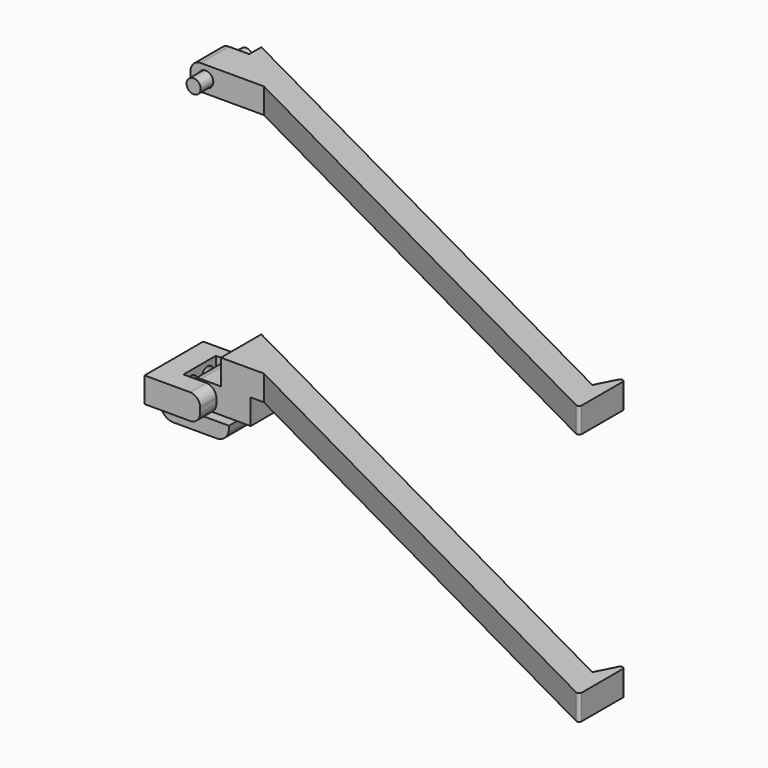
from build123d import *

# Parameters (mm, degrees)
PAD_DEPTH              = 10
SKETCH001_R            = 3
POCKET_DEPTH           = 120.358536
FILLET_R               = 4
CYLINDER_R             = 2.8
CYLINDER_DEPTH         = 26
CYLINDER_ROLL_ANGLE    = 90
CYLINDER001_R          = 2.8
CYLINDER001_DEPTH      = 26
CYLINDER001_ROLL_ANGLE = 90
PAD003_DEPTH           = 10
SKETCH010_R            = 3
POCKET006_DEPTH        = 26
FILLET004_R            = 4
FILLET005_R            = 4
SKETCH011_R            = 3
POCKET007_DEPTH        = 4
SKETCH012_R            = 2
POCKET008_DEPTH        = 5.001
SKETCH013_R            = 2
POCKET009_DEPTH        = 5.001
PAD002_DEPTH           = 10
SKETCH014_W            = 11.775663
SKETCH014_H            = 14
PAD004_DEPTH           = 10
SKETCH015_W            = 14
SKETCH015_H            = 10
PAD005_DEPTH           = 12
SKETCH016_R            = 3
POCKET010_DEPTH        = 120.358536
FILLET006_R            = 4
PAD001_DEPTH           = 10
SKETCH003_R            = 3
POCKET001_DEPTH        = 26
FILLET001_R            = 4
FILLET002_R            = 4
SKETCH004_R            = 3
POCKET002_DEPTH        = 4
SKETCH005_R            = 2
POCKET003_DEPTH        = 5.001
SKETCH006_R            = 2
POCKET004_DEPTH        = 5.001
SKETCH017_W            = 9
SKETCH017_H            = 16
PAD006_DEPTH           = 8
SKETCH018_W            = 16
SKETCH018_H            = 6
PAD007_DEPTH           = 18
FILLET007_R            = 5


with BuildPart() as bar_smoothed:
    # Sketch → Pad (new body)
    with BuildSketch(Plane(origin=(2, 0, 0), x_dir=(1, 0, 0), z_dir=(0, 0, 1))):
        with BuildLine():
            Line((12, 0), (233, -112.605124))
            Line((233, -112.605124), (237.076204, -104.605124))
            ThreePointArc((239, -105.066987), (238.220153, -104.077756), (237.076204, -104.605124))
            Line((239, -125.340197), (239, -105.066987))
            ThreePointArc((237.520797, -126.246653), (238.514219, -126.207621), (239, -125.340197))
            Line((29, -20), (237.520797, -126.246653))
            Line((0, -20), (29, -20))
            Line((0, -6), (0, -20))
            Line((0, -6), (12, -6))
            Line((12, -6), (12, 0))
        make_face()
    extrude(amount=PAD_DEPTH)

    # Sketch001 → Pocket (cut, through all)
    with BuildSketch(Plane(origin=(2, -6, 0), x_dir=(-1, 0, 0), z_dir=(0, 1, 0))):
        with Locations((-6, 5)):
            Circle(SKETCH001_R)
    extrude(amount=-POCKET_DEPTH, mode=Mode.SUBTRACT)

    # Fillet
    fillet_edges = [bar_smoothed.edges().sort_by_distance(p)[0] for p in [
        (2, -13, 0),
        (2, -13, 10),
    ]]
    fillet(fillet_edges, radius=FILLET_R)


with BuildPart() as cylindrical_fastener:
    # Cylinder → Cylinder (new body)
    with BuildSketch(Plane.XY):
        Circle(CYLINDER_R)
    extrude(amount=CYLINDER_DEPTH)


with BuildPart() as cylindrical_fastener_1:
    # Cylinder roll: moved
    add(cylindrical_fastener.part.rotate(Axis((0, 0, 0), (1, 0, 0)), CYLINDER_ROLL_ANGLE))


with BuildPart() as cylindrical_fastener_2:
    # Cylinder placement: moved
    add(cylindrical_fastener_1.part.moved(Location((8, 0, 5))))


with BuildPart() as obj1:
    # Cylinder001 → Cylinder001 (new body)
    with BuildSketch(Plane.XY):
        Circle(CYLINDER001_R)
    extrude(amount=CYLINDER001_DEPTH)


with BuildPart() as obj1_1:
    # Cylinder001 roll: moved
    add(obj1.part.rotate(Axis((0, 0, 0), (1, 0, 0)), CYLINDER001_ROLL_ANGLE))


with BuildPart() as obj1_2:
    # Cylinder001 placement: moved
    add(obj1_1.part.moved(Location((8, 0, -105))))


with BuildPart() as obj2:
    # Sketch009 → Pad003 (new body)
    with BuildSketch(Plane.XY.offset(-110)):
        Polygon((13, 0), (13, -5), (0, -5), (0, -21), (13, -21), (13, -29), (-9, -29), (-9, 0), align=None)
    extrude(amount=PAD003_DEPTH)

    # Sketch010 → Pocket006 (cut)
    with BuildSketch(Plane(origin=(0, 0, -110), x_dir=(-1, 0, 0), z_dir=(0, 1, 0))):
        with Locations((-8, 5)):
            Circle(SKETCH010_R)
    extrude(amount=-POCKET006_DEPTH, mode=Mode.SUBTRACT)

    # Fillet004
    fillet004_edges = [obj2.edges().sort_by_distance(p)[0] for p in [
        (13, -2.5, -100),
        (13, -2.5, -110),
    ]]
    fillet(fillet004_edges, radius=FILLET004_R)

    # Fillet005
    fillet005_edges = [obj2.edges().sort_by_distance(p)[0] for p in [
        (13, -25, -100),
        (13, -25, -110),
    ]]
    fillet(fillet005_edges, radius=FILLET005_R)

    # Sketch011 → Pocket007 (cut)
    with BuildSketch(Plane(origin=(0, 0, -110), x_dir=(0, 1, 0), z_dir=(1, 0, 0))):
        with Locations((-17, 5)):
            Circle(SKETCH011_R)
        with Locations((-9, 5)):
            Circle(SKETCH011_R)
    extrude(amount=-POCKET007_DEPTH, mode=Mode.SUBTRACT)

    # Sketch012 → Pocket008 (cut, through all)
    with BuildSketch(Plane(origin=(-4, 0, -110), x_dir=(0, 1, 0), z_dir=(1, 0, 0))):
        with Locations((-9, 5)):
            Circle(SKETCH012_R)
    extrude(amount=-POCKET008_DEPTH, mode=Mode.SUBTRACT)

    # Sketch013 → Pocket009 (cut, through all)
    with BuildSketch(Plane(origin=(-4, 0, -110), x_dir=(0, 1, 0), z_dir=(1, 0, 0))):
        with Locations((-17, 5)):
            Circle(SKETCH013_R)
    extrude(amount=-POCKET009_DEPTH, mode=Mode.SUBTRACT)


with BuildPart() as barb_smoothed:
    # Sketch007 → Pad002 (new body)
    with BuildSketch(Plane(origin=(2, 0, -100), x_dir=(1, 0, 0), z_dir=(0, 0, 1))):
        with BuildLine():
            Line((12, 0), (233, -112.605124))
            Line((233, -112.605124), (237.076204, -104.605124))
            ThreePointArc((239, -105.066987), (238.220153, -104.077756), (237.076204, -104.605124))
            Line((239, -125.340197), (239, -105.066987))
            ThreePointArc((237.520797, -126.246653), (238.514219, -126.207621), (239, -125.340197))
            Line((29, -20), (237.520797, -126.246653))
            Line((12, -20), (29, -20))
            Line((12, 0), (12, -20))
        make_face()
    extrude(amount=PAD002_DEPTH)

    # Sketch014 → Pad004 (new body)
    with BuildSketch(Plane(origin=(2, 0, -100), x_dir=(1, 0, 0), z_dir=(0, 0, -1))):
        with Locations((17.887831, 13)):
            Rectangle(SKETCH014_W, SKETCH014_H)
    extrude(amount=PAD004_DEPTH)

    # Sketch015 → Pad005 (new body)
    with BuildSketch(Plane(origin=(14, 0, -100), x_dir=(0, -1, 0), z_dir=(-1, 0, 0))):
        with Locations((13, -5)):
            Rectangle(SKETCH015_W, SKETCH015_H)
    extrude(amount=PAD005_DEPTH)

    # Sketch016 → Pocket010 (cut, through all)
    with BuildSketch(Plane(origin=(2, -6, -100), x_dir=(-1, 0, 0), z_dir=(0, 1, 0))):
        with Locations((-6, -5)):
            Circle(SKETCH016_R)
    extrude(amount=-POCKET010_DEPTH, mode=Mode.SUBTRACT)

    # Fillet006
    fillet006_edges = [barb_smoothed.edges().sort_by_distance(p)[0] for p in [
        (2, -13, -100),
        (2, -13, -110),
    ]]
    fillet(fillet006_edges, radius=FILLET006_R)


with BuildPart() as fix_with_side_wing_smoothed:
    # Sketch002 → Pad001 (new body)
    with BuildSketch(Plane.XY):
        Polygon((13, 0), (13, -5), (0, -5), (0, -21), (13, -21), (13, -29), (-9, -29), (-9, 0), align=None)
    extrude(amount=PAD001_DEPTH)

    # Sketch003 → Pocket001 (cut)
    with BuildSketch(Plane(origin=(0, 0, 0), x_dir=(-1, 0, 0), z_dir=(0, 1, 0))):
        with Locations((-8, 5)):
            Circle(SKETCH003_R)
    extrude(amount=-POCKET001_DEPTH, mode=Mode.SUBTRACT)

    # Fillet001
    fillet001_edges = [fix_with_side_wing_smoothed.edges().sort_by_distance(p)[0] for p in [
        (13, -2.5, 10),
        (13, -2.5, 0),
    ]]
    fillet(fillet001_edges, radius=FILLET001_R)

    # Fillet002
    fillet002_edges = [fix_with_side_wing_smoothed.edges().sort_by_distance(p)[0] for p in [
        (13, -25, 10),
        (13, -25, 0),
    ]]
    fillet(fillet002_edges, radius=FILLET002_R)

    # Sketch004 → Pocket002 (cut)
    with BuildSketch(Plane.YZ):
        with Locations((-17, 5)):
            Circle(SKETCH004_R)
        with Locations((-9, 5)):
            Circle(SKETCH004_R)
    extrude(amount=-POCKET002_DEPTH, mode=Mode.SUBTRACT)

    # Sketch005 → Pocket003 (cut, through all)
    with BuildSketch(Plane.YZ.offset(-4)):
        with Locations((-9, 5)):
            Circle(SKETCH005_R)
    extrude(amount=-POCKET003_DEPTH, mode=Mode.SUBTRACT)

    # Sketch006 → Pocket004 (cut, through all)
    with BuildSketch(Plane.YZ.offset(-4)):
        with Locations((-17, 5)):
            Circle(SKETCH006_R)
    extrude(amount=-POCKET004_DEPTH, mode=Mode.SUBTRACT)

    # Sketch017 → Pad006 (new body)
    with BuildSketch(Plane.XY.offset(10)):
        with Locations((-4.5, -13)):
            Rectangle(SKETCH017_W, SKETCH017_H)
    extrude(amount=PAD006_DEPTH)

    # Sketch018 → Pad007 (new body)
    with BuildSketch(Plane.YZ):
        with Locations((-13, 15)):
            Rectangle(SKETCH018_W, SKETCH018_H)
    extrude(amount=PAD007_DEPTH)

    # Fillet007
    fillet007_edges = [fix_with_side_wing_smoothed.edges().sort_by_distance(p)[0] for p in [
        (18, -13, 18),
        (-9, -13, 18),
    ]]
    fillet(fillet007_edges, radius=FILLET007_R)


with BuildPart() as obj3:
    # Part__Mirroring: instance of fix_with_side_wing_smoothed
    add(fix_with_side_wing_smoothed.part.mirror(Plane(origin=(0, 0, 0), x_dir=(0, 1, 0), z_dir=(0, 0, 1))))


with BuildPart() as obj3_1:
    # Part__Mirroring placement: moved
    add(obj3.part.moved(Location((0, 0, -100))))


solid = Compound([bar_smoothed.part, cylindrical_fastener_2.part, obj1_2.part, obj2.part, barb_smoothed.part, obj3_1.part])
